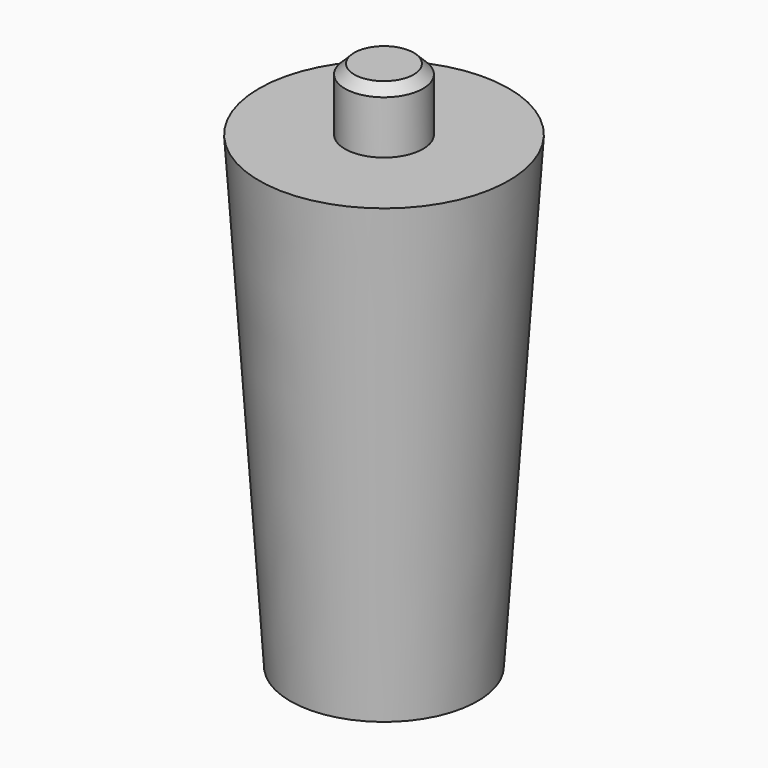
from build123d import *

# Parameters (mm, degrees)
F2_R     = 1.25
F3_DEPTH = 2
F4_SIZE  = 0.3


with BuildPart() as f1:
    # F0 (on Front) → F1 (revolve)
    with BuildSketch(Plane.XZ):
        Polygon((0, -15), (0, 0), (-4, 0), (-3, -15), align=None)
    revolve(axis=Axis((0, 0, -6.756781), (0, 0, -1)))

    # F2 (on face) → F3 (join)
    with BuildSketch(Plane.XY):
        Circle(F2_R)
    extrude(amount=F3_DEPTH)

    # F4
    f4_edges = [f1.edges().sort_by_distance(p)[0] for p in [
        (-1.25, 0, 2),
    ]]
    chamfer(f4_edges, length=F4_SIZE)


solid = f1.part
